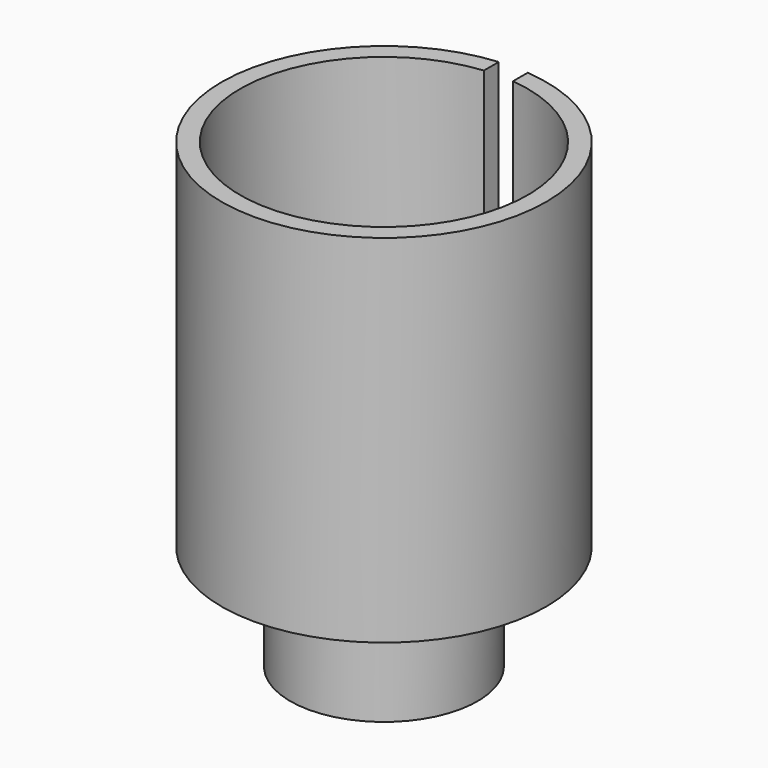
from build123d import *

# Parameters (mm, degrees)
F0_R     = 12.3
F0_R_2   = 10.9
F0_R_3   = 7.1
F0_R_4   = 5.7
F0_R_5   = 2.9
F0_R_6   = 1.9
F1_DEPTH = 2
F2_DEPTH = 10
F3_DEPTH = 25
F4_W     = 2.2
F4_H     = 35
F5_DEPTH = 12.301
F6_SIZE  = 1.2


with BuildPart() as f1:
    # F0 (on Top) → F1 (new body)
    with BuildSketch(Plane.XY):
        Circle(F0_R)
        Circle(F0_R_2, mode=Mode.SUBTRACT)
        Circle(F0_R_2)
        Circle(F0_R_3, mode=Mode.SUBTRACT)
        Circle(F0_R_3)
        Circle(F0_R_4, mode=Mode.SUBTRACT)
        Circle(F0_R_4)
        Circle(F0_R_5, mode=Mode.SUBTRACT)
        Circle(F0_R_5)
        Circle(F0_R_6, mode=Mode.SUBTRACT)
    extrude(amount=-F1_DEPTH)

    # F0 (on Top) → F2 (join)
    with BuildSketch(Plane.XY):
        Circle(F0_R_3)
        Circle(F0_R_4, mode=Mode.SUBTRACT)
        Circle(F0_R_5)
        Circle(F0_R_6, mode=Mode.SUBTRACT)
    extrude(amount=-F2_DEPTH)

    # F0 (on Top) → F3 (join)
    with BuildSketch(Plane.XY):
        Circle(F0_R)
        Circle(F0_R_2, mode=Mode.SUBTRACT)
    extrude(amount=F3_DEPTH)

    # F4 (on Front) → F5 (cut, through all)
    with BuildSketch(Plane.XZ):
        with Locations((0, 7.5)):
            Rectangle(F4_W, F4_H)
    extrude(amount=-F5_DEPTH, mode=Mode.SUBTRACT)

    # F6
    f6_edges = [f1.edges().sort_by_distance(p)[0] for p in [
        (0, -7.1, -2),
    ]]
    chamfer(f6_edges, length=F6_SIZE)


solid = f1.part
